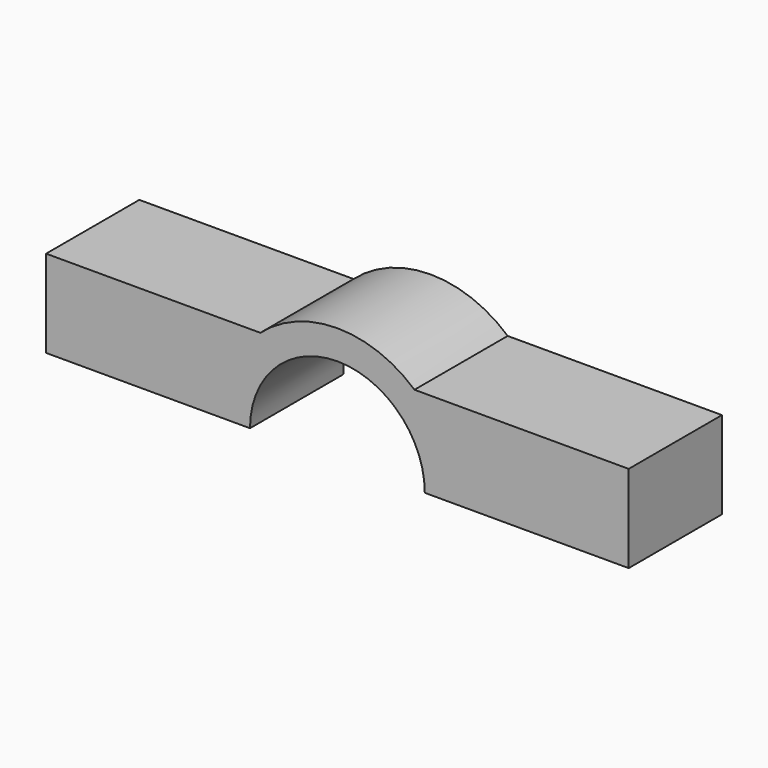
from build123d import *

# Parameters (mm, degrees)
F1_DEPTH = 50.8


with BuildPart() as f1:
    # F0 (on Front) → F1 (new body)
    with BuildSketch(Plane.XZ):
        with BuildLine():
            Line((-127, 0), (-127, -38.1))
            Line((-127, -38.1), (-50.8, -38.1))
            ThreePointArc((-50.8, -38.1), (-46.301042, -17.198958), (-33.601042, 0))
            Line((-33.601042, 0), (-127, 0))
        make_face()
        with BuildLine():
            Line((127, 0), (33.601042, 0))
            ThreePointArc((33.601042, 0), (46.301042, -17.198958), (50.8, -38.1))
            Line((50.8, -38.1), (127, -38.1))
            Line((127, -38.1), (127, 0))
        make_face()
        with BuildLine():
            ThreePointArc((-33.601042, 0), (-46.301042, -17.198958), (-50.8, -38.1))
            Line((-50.8, -38.1), (-38.1, -38.1))
            ThreePointArc((-38.1, -38.1), (0, 0), (38.1, -38.1))
            Line((38.1, -38.1), (50.8, -38.1))
            ThreePointArc((50.8, -38.1), (46.301042, -17.198958), (33.601042, 0))
            ThreePointArc((33.601042, 0), (0, 12.7), (-33.601042, 0))
        make_face()
    extrude(amount=F1_DEPTH)


solid = f1.part
